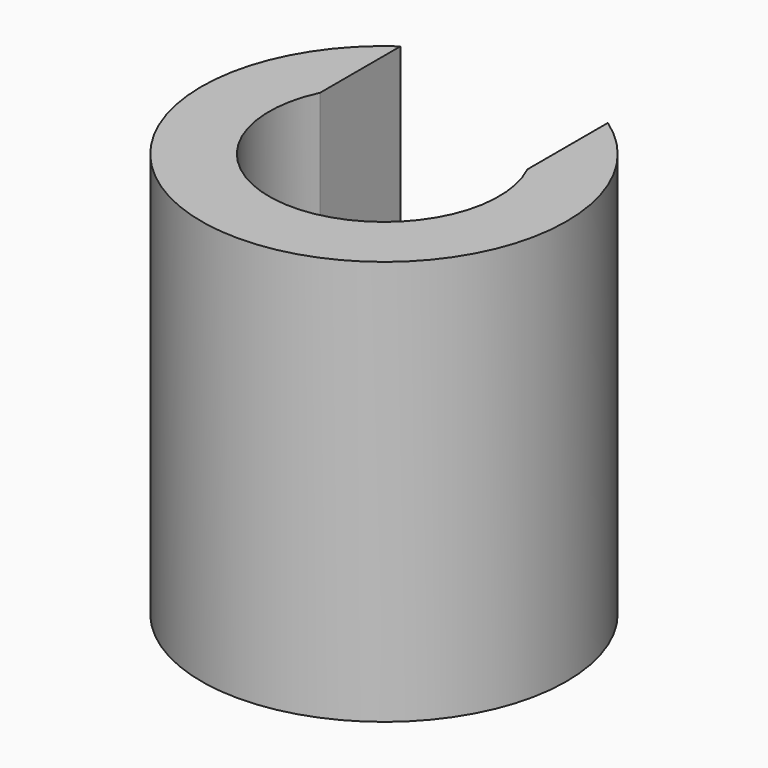
from build123d import *

# Parameters (mm, degrees)
F0_R          = 8.1
F0_R_2        = 5.1
F1_DEPTH      = 17.97
F4_DEPTH      = 7.6
F4_DEPTH_BACK = 0.4
F6_DEPTH      = 5


with BuildPart() as f1:
    # F0 (on Top) → F1 (new body)
    with BuildSketch(Plane.XY):
        Circle(F0_R)
        Circle(F0_R_2, mode=Mode.SUBTRACT)
    extrude(amount=F1_DEPTH)

    # F3 (on offset) → F4 (cut, two sides)
    with BuildSketch(Plane.XZ.offset(-9.09)) as f4_sk:
        Polygon((4.6, 0), (4.6, 17.97), (0, 17.97), (-4.6, 17.97), (-4.6, 0), (0, 0), align=None)
    extrude(amount=F4_DEPTH, mode=Mode.SUBTRACT)
    extrude(f4_sk.sketch, amount=-F4_DEPTH_BACK, mode=Mode.SUBTRACT)

    # F5 (on face) → F6 (join)
    with BuildSketch(Plane(origin=(0, 0, 0), x_dir=(1, 0, 0), z_dir=(0, 0, -1))):
        Polygon((0, 5.044552), (-0.75, 5.044552), (-0.75, 3.444552), (0, 3.444552), (0.75, 3.444552), (0.75, 5.044552), align=None)
        with BuildLine():
            ThreePointArc((0.75, 5.044552), (0, 5.1), (-0.75, 5.044552))
            Line((-0.75, 5.044552), (0, 5.044552))
            Line((0, 5.044552), (0.75, 5.044552))
        make_face()
    extrude(amount=-F6_DEPTH)


solid = f1.part
